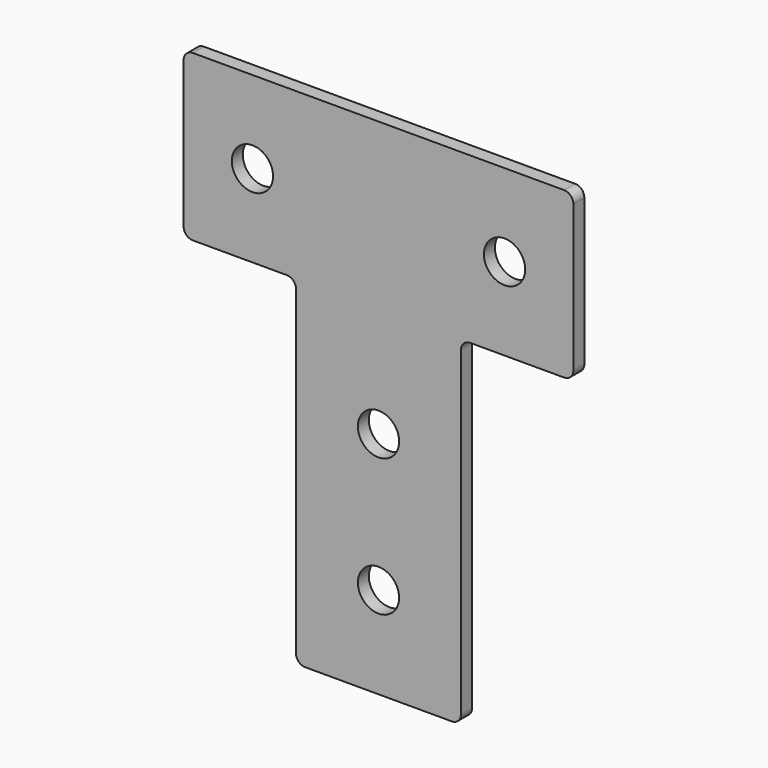
from build123d import *

# Parameters (mm, degrees)
SKETCH_R  = 4.5
PAD_DEPTH = 1.5
FILLET_R  = 2


with BuildPart() as part:
    # Sketch → Pad (new body, symmetric)
    with BuildSketch(Plane.XZ):
        Polygon((-42.5, 110), (42.5, 110), (42.5, 74), (18, 74), (18, 0), (-18, 0), (-18, 74), (-42.5, 74), align=None)
        with Locations((-27.5, 92)):
            Circle(SKETCH_R, mode=Mode.SUBTRACT)
        with Locations((27.5, 92)):
            Circle(SKETCH_R, mode=Mode.SUBTRACT)
        with Locations((0, 20)):
            Circle(SKETCH_R, mode=Mode.SUBTRACT)
        with Locations((0, 50)):
            Circle(SKETCH_R, mode=Mode.SUBTRACT)
    extrude(amount=PAD_DEPTH, both=True)

    # Fillet
    fillet_edges = [part.edges().sort_by_distance(p)[0] for p in [
        (42.5, 0, 110),
        (42.5, 0, 74),
        (18, 0, 74),
        (-18, 0, 74),
        (-42.5, 0, 74),
        (-42.5, 0, 110),
        (18, 0, 0),
        (-18, 0, 0),
    ]]
    fillet(fillet_edges, radius=FILLET_R)


solid = part.part
